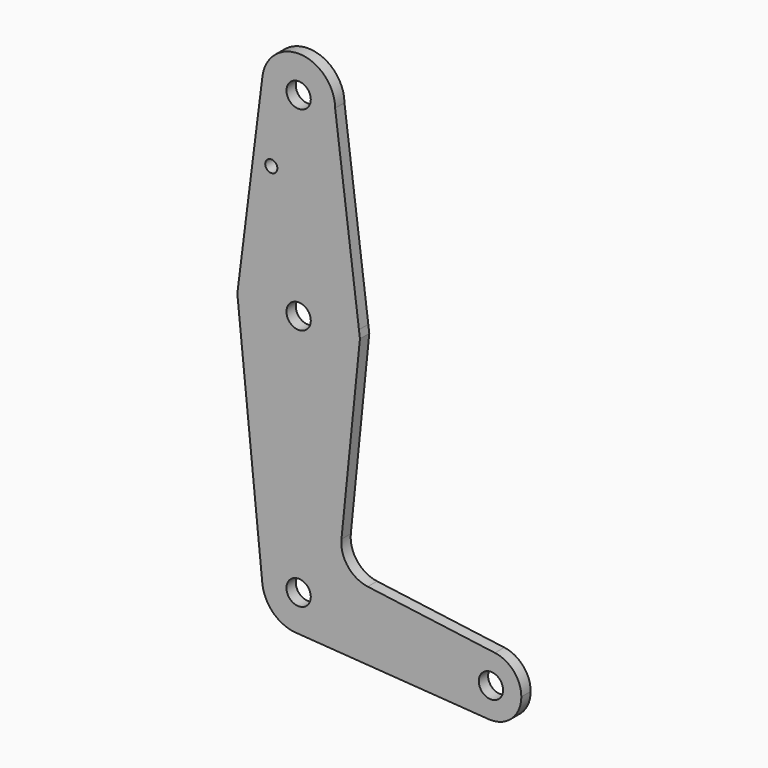
from build123d import *

# Parameters (mm, degrees)
F0_R     = 3.175
F0_R_2   = 1.5875
F1_DEPTH = 3.048


with BuildPart() as f1:
    # F0 (on Front) → F1 (new body)
    with BuildSketch(Plane.XZ):
        with BuildLine():
            ThreePointArc((-9.468205692, 51.8386077092), (-0.5200796975, 41.2892091755), (9.525, 50.8))
            ThreePointArc((9.525, 50.8), (9.5249075862, 50.8419580096), (9.5246303465, 50.883915205))
            ThreePointArc((9.5246303465, 50.883915205), (0.6312211854, 60.3040614905), (-9.4298739503, 52.1427964405))
            Line((-9.4298739503, 52.1427964405), (-9.468205692, 51.8386077092))
        make_face()
        with Locations((0, 50.8)):
            Circle(F0_R, mode=Mode.SUBTRACT)
        with BuildLine():
            ThreePointArc((9.5246303465, 50.883915205), (9.5249075862, 50.8419580096), (9.525, 50.8))
            ThreePointArc((9.525, 50.8), (-0.5200796975, 41.2892091755), (-9.468205692, 51.8386077092))
            Line((-9.468205692, 51.8386077092), (-15.7504397323, 1.984760247))
            ThreePointArc((-15.7504397323, 1.984760247), (-0.0102074651, 15.8749967184), (15.7478743476, 2.0050133499))
            Line((15.7478743476, 2.0050133499), (9.5246303465, 50.883915205))
        make_face()
        with Locations((-7.1346270852, 32.1347415447)):
            Circle(F0_R_2, mode=Mode.SUBTRACT)
        with BuildLine():
            ThreePointArc((-9.4298739503, 52.1427964405), (-9.4502638185, 51.9908563145), (-9.468205692, 51.8386077092))
            Line((-9.468205692, 51.8386077092), (-9.4298739503, 52.1427964405))
        make_face()
        with BuildLine():
            Line((16.0031519178, 0), (15.7478743476, 2.0050133499))
            ThreePointArc((15.7478743476, 2.0050133499), (15.8431867102, 1.0045197191), (15.875, 0))
            ThreePointArc((15.875, 0), (-0.994332502, -15.8438293312), (-15.7504397323, 1.984760247))
            Line((-15.7504397323, 1.984760247), (-16.0005453715, 0))
            Line((-16.0005453715, 0), (-9.4765863841, -64.4591326836))
            ThreePointArc((-9.4765863841, -64.4591326836), (-0.48017689, -53.9871111037), (9.525, -63.5))
            ThreePointArc((9.525, -63.5), (6.7351920908, -70.2351920908), (0, -73.025))
            Line((0, -73.025), (49.6410576331, -76.5004650301))
            ThreePointArc((49.6410576331, -76.5004650301), (42.2984814303, -67.7809327821), (51.2431045884, -60.7142939434))
            Line((51.2431045884, -60.7142939434), (18.0427839058, -56.2934470055))
            ThreePointArc((18.0427839058, -56.2934470055), (12.8544663363, -53.3420084904), (11.182385928, -47.6119320844))
            Line((11.182385928, -47.6119320844), (16.0031519178, 0))
        make_face()
        with BuildLine():
            ThreePointArc((15.875, 0), (15.8431867102, 1.0045197191), (15.7478743476, 2.0050133499))
            ThreePointArc((15.7478743476, 2.0050133499), (-0.0102074651, 15.8749967184), (-15.7504397323, 1.984760247))
            ThreePointArc((-15.7504397323, 1.984760247), (-0.994332502, -15.8438293312), (15.875, 0))
        make_face()
        Circle(F0_R, mode=Mode.SUBTRACT)
        with BuildLine():
            ThreePointArc((9.525, -63.5), (-0.48017689, -53.9871111037), (-9.4765863841, -64.4591326836))
            ThreePointArc((-9.4765863841, -64.4591326836), (-6.3870919122, -70.5661645824), (0, -73.025))
            ThreePointArc((0, -73.025), (6.7351920908, -70.2351920908), (9.525, -63.5))
        make_face()
        with Locations((0, -63.5)):
            Circle(F0_R, mode=Mode.SUBTRACT)
        with BuildLine():
            ThreePointArc((58.1329201428, -68.5823472956), (56.1670154714, -63.353202482), (51.2431045884, -60.7142939434))
            ThreePointArc((51.2431045884, -60.7142939434), (42.2984814303, -67.7809327821), (49.6410576331, -76.5004650301))
            ThreePointArc((49.6410576331, -76.5004650301), (55.6085363354, -74.3876964957), (58.1329201428, -68.5823472956))
        make_face()
        with Locations((50.1954201428, -68.5823472956)):
            Circle(F0_R, mode=Mode.SUBTRACT)
    extrude(amount=F1_DEPTH)


solid = f1.part
